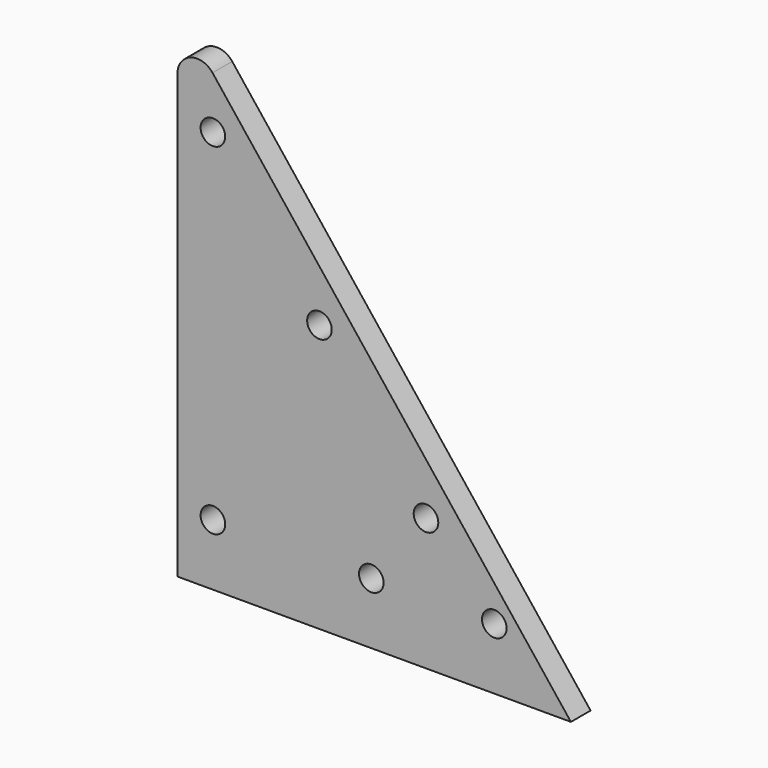
from build123d import *

# Parameters (mm, degrees)
F2_DEPTH = 6.35
F1_R     = 3.175
F3_DEPTH = 43.312125


with BuildPart() as f2:
    # F0 (on Front) → F2 (new body)
    with BuildSketch(Plane.XZ):
        with BuildLine():
            ThreePointArc((-43.41636, 30.743599), (-49.070349, 32.399624), (-52.486688, 27.599767))
            Line((-52.486688, 27.599767), (-52.486688, -86.700233))
            Line((-52.486688, -86.700233), (49.113312, -86.700233))
            Line((49.113312, -86.700233), (-43.41636, 30.743599))
        make_face()
    extrude(amount=F2_DEPTH)

    # F1 (on face) → F3 (cut)
    with BuildSketch(Plane.XZ):
        with Locations((29.330341, -70.825233)):
            Circle(F1_R)
        with Locations((-2.419659, -70.825233)):
            Circle(F1_R)
        with Locations((11.694808, -52.545519)):
            Circle(F1_R)
        with Locations((-15.813726, -17.630149)):
            Circle(F1_R)
        with Locations((-43.32226, 17.285221)):
            Circle(F1_R)
        with Locations((-43.32226, -70.825233)):
            Circle(F1_R)
    extrude(amount=F3_DEPTH, mode=Mode.SUBTRACT)


solid = f2.part
